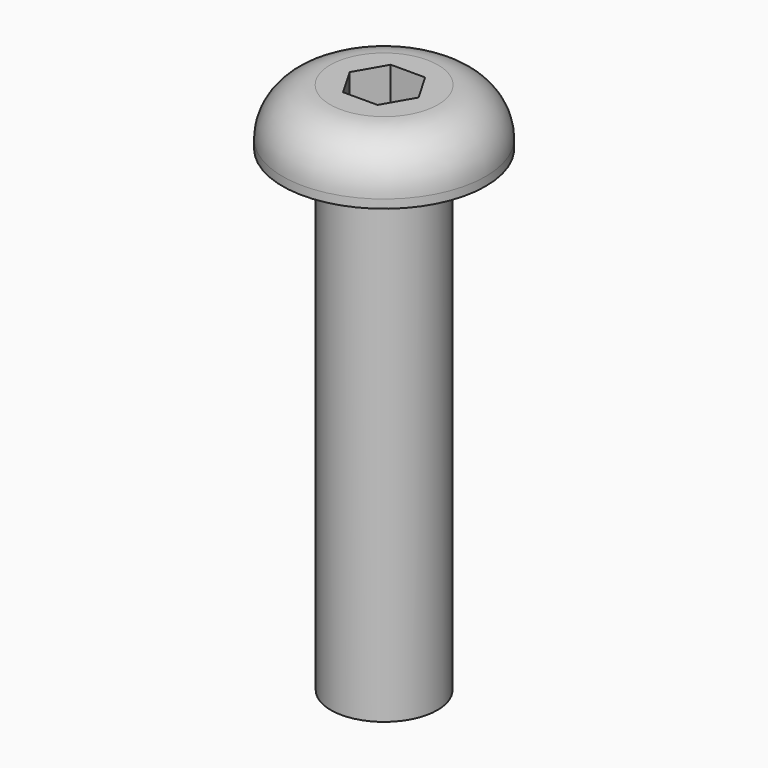
from build123d import *

# Parameters (mm, degrees)
F0_R     = 1.4224
F1_DEPTH = 12.7
F2_R     = 2.7051
F3_DEPTH = 1.4986
F4_R     = 1.27
F6_DEPTH = 0.89154


with BuildPart() as f1:
    # F0 (on Top) → F1 (new body)
    with BuildSketch(Plane.XY):
        Circle(F0_R)
    extrude(amount=F1_DEPTH)

    # F2 (on face) → F3 (join)
    with BuildSketch(Plane.XY.offset(12.7)):
        Circle(F2_R)
    extrude(amount=F3_DEPTH)

    # F4
    f4_edges = [f1.edges().sort_by_distance(p)[0] for p in [
        (-2.7051, 0, 14.1986),
    ]]
    fillet(f4_edges, radius=F4_R)

    # F5 (on face) → F6 (cut)
    with BuildSketch(Plane.XY.offset(14.1986)):
        Polygon((0.458272, -0.79375), (0.916544, 0), (0.458272, 0.79375), (-0.458272, 0.79375), (-0.916544, 0), (-0.458272, -0.79375), align=None)
    extrude(amount=-F6_DEPTH, mode=Mode.SUBTRACT)


solid = f1.part
